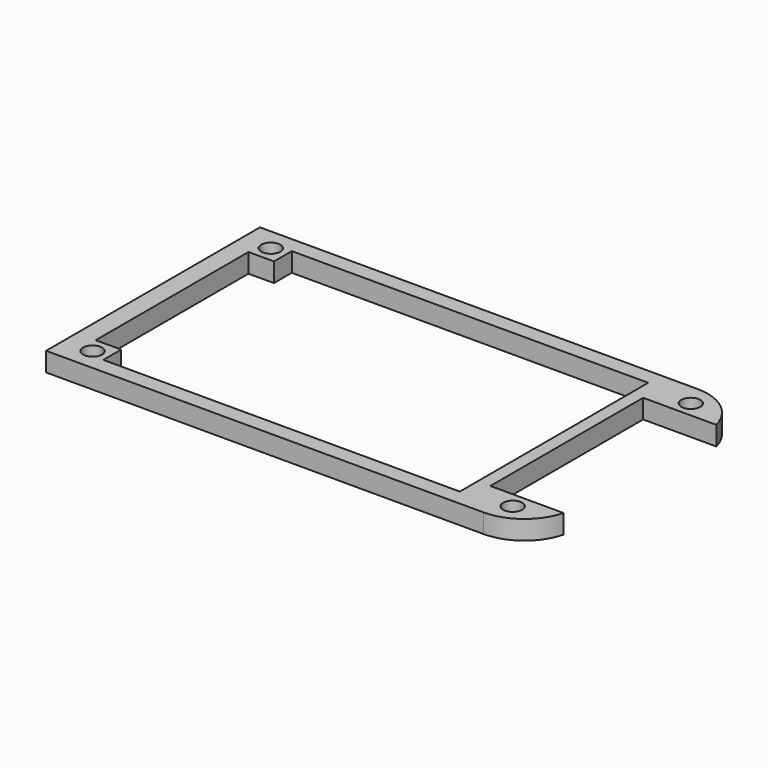
from build123d import *

# Parameters (mm, degrees)
BOX116_W          = 56
BOX116_H          = 37
BOX116_DEPTH      = 6
BOX130_W          = 60
BOX130_H          = 30
BOX130_DEPTH      = 6
CYLINDER224_R     = 1.5
CYLINDER224_DEPTH = 12
BOX131_W          = 12
BOX131_H          = 30
BOX131_DEPTH      = 6
CYLINDER222_R     = 1.5
CYLINDER222_DEPTH = 12
CYLINDER221_R     = 1.5
CYLINDER221_DEPTH = 12
CYLINDER223_R     = 1.5
CYLINDER223_DEPTH = 12
BOX134_W          = 25
BOX134_H          = 45
BOX134_DEPTH      = 6
BOX097_W          = 100
BOX097_H          = 42
BOX097_DEPTH      = 3
FILLET082_R       = 8


with BuildPart() as obj1:
    # Box116 → Box116 (new body)
    with BuildSketch(Plane(origin=(-38, -18.5, 13), x_dir=(1, 0, 0), z_dir=(0, 0, 1))):
        with Locations((28, 18.5)):
            Rectangle(BOX116_W, BOX116_H)
    extrude(amount=BOX116_DEPTH)


with BuildPart() as obj2:
    # Box130 → Box130 (new body)
    with BuildSketch(Plane(origin=(-42, -15, 13), x_dir=(1, 0, 0), z_dir=(0, 0, 1))):
        with Locations((30, 15)):
            Rectangle(BOX130_W, BOX130_H)
    extrude(amount=BOX130_DEPTH)


with BuildPart() as zylinder224:
    # Cylinder224 → Cylinder224 (new body)
    with BuildSketch(Plane(origin=(25.5, 17.5, 8), x_dir=(1, 0, 0), z_dir=(0, 0, 1))):
        Circle(CYLINDER224_R)
    extrude(amount=CYLINDER224_DEPTH)


with BuildPart() as obj3:
    # Box131 → Box131 (new body)
    with BuildSketch(Plane(origin=(20, -15, 13), x_dir=(1, 0, 0), z_dir=(0, 0, 1))):
        with Locations((6, 15)):
            Rectangle(BOX131_W, BOX131_H)
    extrude(amount=BOX131_DEPTH)


with BuildPart() as zylinder222:
    # Cylinder222 → Cylinder222 (new body)
    with BuildSketch(Plane(origin=(-40.5, -17.5, 8), x_dir=(1, 0, 0), z_dir=(0, 0, 1))):
        Circle(CYLINDER222_R)
    extrude(amount=CYLINDER222_DEPTH)


with BuildPart() as zylinder221:
    # Cylinder221 → Cylinder221 (new body)
    with BuildSketch(Plane(origin=(-40.5, 17.5, 8), x_dir=(1, 0, 0), z_dir=(0, 0, 1))):
        Circle(CYLINDER221_R)
    extrude(amount=CYLINDER221_DEPTH)


with BuildPart() as zylinder223:
    # Cylinder223 → Cylinder223 (new body)
    with BuildSketch(Plane(origin=(25.5, -17.5, 8), x_dir=(1, 0, 0), z_dir=(0, 0, 1))):
        Circle(CYLINDER223_R)
    extrude(amount=CYLINDER223_DEPTH)


with BuildPart() as fusion142:
    # Box134 → Box134 (new body)
    with BuildSketch(Plane(origin=(-70, -22.5, 13), x_dir=(1, 0, 0), z_dir=(0, 0, 1))):
        with Locations((12.5, 22.5)):
            Rectangle(BOX134_W, BOX134_H)
    extrude(amount=BOX134_DEPTH)

    # Fusion142: union obj1, obj2, Zylinder224, obj3, Zylinder222, Zylinder221, Zylinder223
    add(obj1.part)
    add(obj2.part)
    add(zylinder224.part)
    add(obj3.part)
    add(zylinder222.part)
    add(zylinder221.part)
    add(zylinder223.part)


with BuildPart() as cut097:
    # Box097 → Box097 (new body)
    with BuildSketch(Plane(origin=(-68.25, -21, 14), x_dir=(1, 0, 0), z_dir=(0, 0, 1))):
        with Locations((50, 21)):
            Rectangle(BOX097_W, BOX097_H)
    extrude(amount=BOX097_DEPTH)

    # Fillet082
    fillet082_edges = [cut097.edges().sort_by_distance(p)[0] for p in [
        (-68.25, -21, 15.5),
        (-68.25, 21, 15.5),
        (31.75, -21, 15.5),
        (31.75, 21, 15.5),
    ]]
    fillet(fillet082_edges, radius=FILLET082_R)

    # Cut097: cut Fusion142
    add(fusion142.part, mode=Mode.SUBTRACT)


solid = cut097.part
